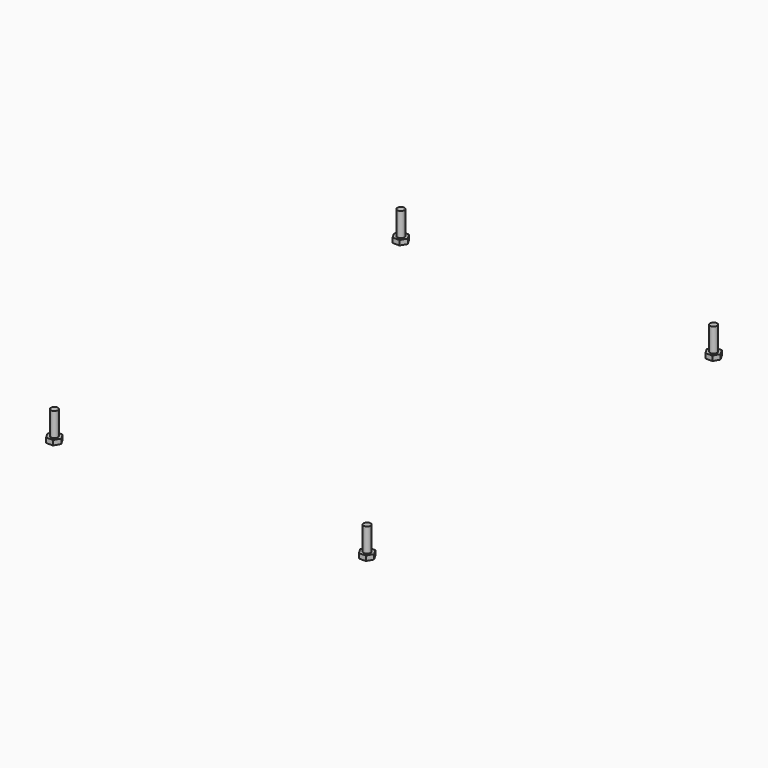
from build123d import *

# Parameters (mm, degrees)
PAD017_DEPTH  = 4
SKETCH026_R   = 2.9
PAD018_DEPTH  = 19.8
ARRAY_X_COUNT = 2
ARRAY_X_PITCH = 260
ARRAY_Y_COUNT = 2
ARRAY_Y_PITCH = 360


with BuildPart() as part:
    # Sketch025 → Pad017 (new body)
    with BuildSketch(Plane(origin=(352, 102, 8), x_dir=(0.866025, 0.5, 0), z_dir=(0, 0, 1))):
        Polygon((0, 5.773503), (-5, 2.886751), (-5, -2.886751), (0, -5.773503), (5, -2.886751), (5, 2.886751), align=None)
    extrude(amount=PAD017_DEPTH)

    # Sketch026 → Pad018 (new body)
    with BuildSketch(Plane(origin=(352, 102, 12), x_dir=(0.866025, 0.5, 0), z_dir=(0, 0, 1))):
        Circle(SKETCH026_R)
    extrude(amount=PAD018_DEPTH)


with BuildPart() as part_1:
    # Clone placement: moved
    add(part.part.moved(Location((-282, 78, 0))))

    # Array X: part ×2


with BuildPart() as part_2:
    add(part_1.part)
    with Locations(*[(i * ARRAY_X_PITCH, 0, 0) for i in range(1, ARRAY_X_COUNT)]):
        add(part_1.part)

    # Array Y: part ×2


with BuildPart() as part_3:
    add(part_2.part)
    with Locations(*[(0, -i * ARRAY_Y_PITCH, 0) for i in range(1, ARRAY_Y_COUNT)]):
        add(part_2.part)


solid = part_3.part
